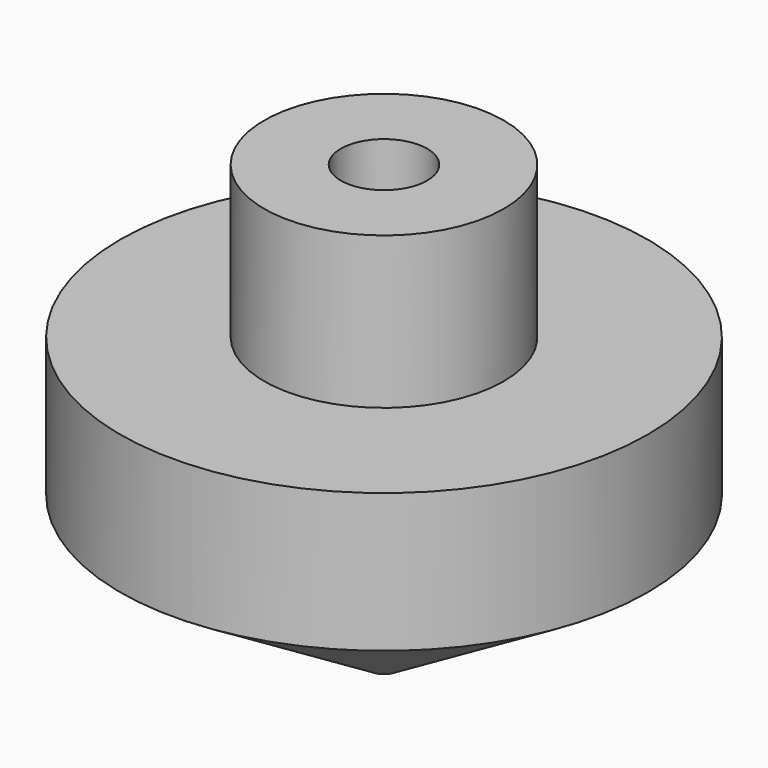
from build123d import *

# Parameters (mm, degrees)
F2_R     = 4.7625
F4_DEPTH = 25.4
F5_R     = 1.5875
F6_DEPTH = 25.4


with BuildPart() as f1:
    # F0 (on Front) → F1 (revolve)
    with BuildSketch(Plane.XZ):
        Polygon((0, 49.591192), (0, 0), (29.094543, 17.542299), (29.094543, 32.854902), (13.208, 32.854902), (13.208, 49.591192), align=None)
    revolve(axis=Axis((0, 0, 24.795596), (0, 0, 1)))

    # F2 (on face) → F4 (cut)
    with BuildSketch(Plane.XY.offset(49.591192)):
        Circle(F2_R)
    extrude(amount=-F4_DEPTH, mode=Mode.SUBTRACT)

    # F5 (on Top) → F6 (cut)
    with BuildSketch(Plane.XY):
        Circle(F5_R)
    extrude(amount=F6_DEPTH, mode=Mode.SUBTRACT)


solid = f1.part
